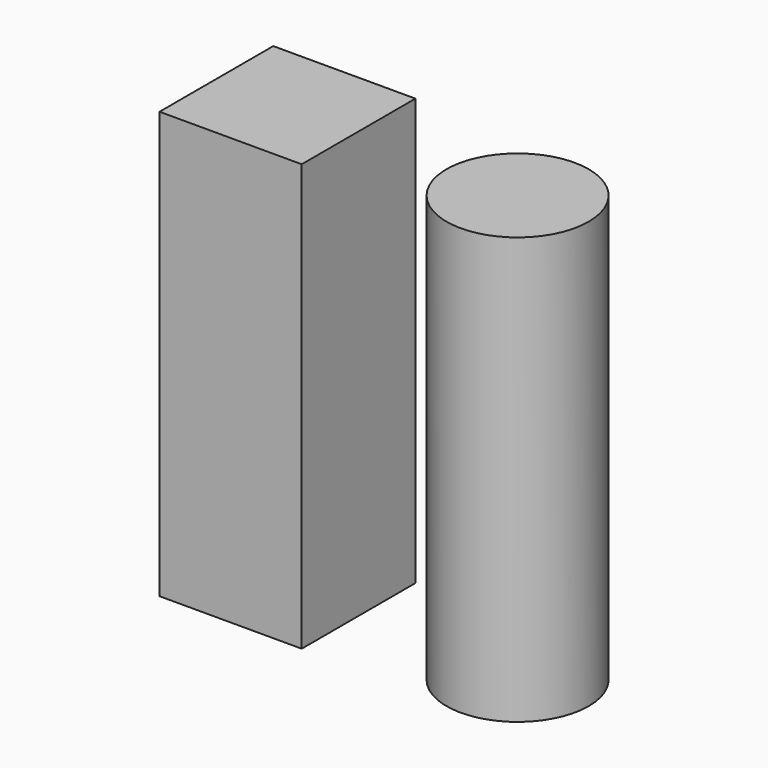
from build123d import *

# Parameters (mm, degrees)
F0_W     = 25.4
F0_H     = 25.4
F0_R     = 12.7
F1_DEPTH = 76.2


with BuildPart() as f1:
    # F0 (on Top) → F1 (new body)
    with BuildSketch(Plane.XY):
        with Locations((-47.068807, -12.7)):
            Rectangle(F0_W, F0_H)
        with Locations((-4.964821, -13.93969)):
            Circle(F0_R)
    extrude(amount=F1_DEPTH)


solid = f1.part
